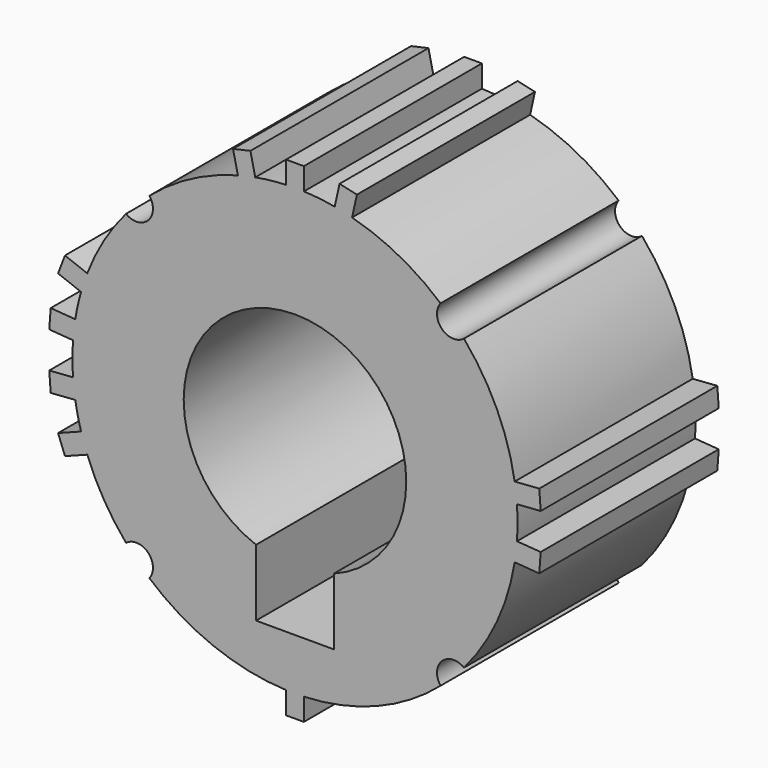
from build123d import *

# Parameters (mm, degrees)
F1_DEPTH = 25.4


with BuildPart() as f1:
    # F0 (on Front) → F1 (new body)
    with BuildSketch(Plane.XZ):
        with BuildLine():
            ThreePointArc((19.284791, 16.530482), (16.762226, 16.687837), (16.616092, 19.211078))
            ThreePointArc((16.616092, 19.211078), (11.870376, 22.455605), (6.516592, 24.549828))
            Line((6.516592, 24.549828), (7.06953, 27.028912))
            Line((7.06953, 27.028912), (5.086263, 27.471263))
            Line((5.086263, 27.471263), (4.533324, 24.992178))
            ThreePointArc((4.533324, 24.992178), (2.781418, 25.247252), (1.016, 25.379672))
            Line((1.016, 25.379672), (1.016, 27.919672))
            Line((1.016, 27.919672), (-1.016, 27.919672))
            Line((-1.016, 27.919672), (-1.016, 25.379672))
            ThreePointArc((-1.016, 25.379672), (-2.781418, 25.247252), (-4.533324, 24.992178))
            Line((-4.533324, 24.992178), (-5.086263, 27.471263))
            Line((-5.086263, 27.471263), (-7.06953, 27.028912))
            Line((-7.06953, 27.028912), (-6.516592, 24.549828))
            ThreePointArc((-6.516592, 24.549828), (-11.870376, 22.455605), (-16.616092, 19.211078))
            ThreePointArc((-16.616092, 19.211078), (-16.762226, 16.687837), (-19.284791, 16.530482))
            ThreePointArc((-19.284791, 16.530482), (-21.815816, 13.00885), (-23.710856, 9.107979))
            Line((-23.710856, 9.107979), (-26.248305, 10.082682))
            Line((-26.248305, 10.082682), (-27.040335, 8.020787))
            Line((-27.040335, 8.020787), (-24.413065, 7.011581))
            ThreePointArc((-24.413065, 7.011581), (-24.787675, 5.543569), (-25.074094, 4.055834))
            Line((-25.074094, 4.055834), (-27.880973, 4.261933))
            Line((-27.880973, 4.261933), (-28.042721, 2.059081))
            Line((-28.042721, 2.059081), (-25.331804, 1.860028))
            ThreePointArc((-25.331804, 1.860028), (-25.4, 0), (-25.331804, -1.860028))
            Line((-25.331804, -1.860028), (-28.042721, -2.059081))
            Line((-28.042721, -2.059081), (-27.880973, -4.261933))
            Line((-27.880973, -4.261933), (-25.074094, -4.055834))
            ThreePointArc((-25.074094, -4.055834), (-24.787675, -5.543569), (-24.413065, -7.011581))
            Line((-24.413065, -7.011581), (-27.040335, -8.020787))
            Line((-27.040335, -8.020787), (-26.248305, -10.082682))
            Line((-26.248305, -10.082682), (-23.710856, -9.107979))
            ThreePointArc((-23.710856, -9.107979), (-21.815816, -13.00885), (-19.284791, -16.530482))
            ThreePointArc((-19.284791, -16.530482), (-16.762226, -16.687837), (-16.616092, -19.211078))
            ThreePointArc((-16.616092, -19.211078), (-9.339997, -23.620424), (-1.016, -25.379672))
            Line((-1.016, -25.379672), (-1.016, -27.919672))
            Line((-1.016, -27.919672), (1.016, -27.919672))
            Line((1.016, -27.919672), (1.016, -25.379672))
            ThreePointArc((1.016, -25.379672), (9.339997, -23.620424), (16.616092, -19.211078))
            ThreePointArc((16.616092, -19.211078), (16.762226, -16.687837), (19.284791, -16.530482))
            ThreePointArc((19.284791, -16.530482), (23.039789, -10.692432), (25.074094, -4.055834))
            Line((25.074094, -4.055834), (27.880973, -4.261933))
            Line((27.880973, -4.261933), (28.042721, -2.059081))
            Line((28.042721, -2.059081), (25.331804, -1.860028))
            ThreePointArc((25.331804, -1.860028), (25.4, 0), (25.331804, 1.860028))
            Line((25.331804, 1.860028), (28.042721, 2.059081))
            Line((28.042721, 2.059081), (27.880973, 4.261933))
            Line((27.880973, 4.261933), (25.074094, 4.055834))
            ThreePointArc((25.074094, 4.055834), (23.039789, 10.692432), (19.284791, 16.530482))
        make_face()
        with BuildLine():
            ThreePointArc((-4.445, -11.896721), (-12.7, 0), (-4.445, 11.896721))
            ThreePointArc((-4.445, 11.896721), (0, 12.7), (4.445, 11.896721))
            ThreePointArc((4.445, 11.896721), (12.7, 0), (4.445, -11.896721))
            Line((4.445, -11.896721), (4.445, -19.516721))
            Line((4.445, -19.516721), (-4.445, -19.516721))
            Line((-4.445, -19.516721), (-4.445, -11.896721))
        make_face(mode=Mode.SUBTRACT)
    extrude(amount=F1_DEPTH)


solid = f1.part
